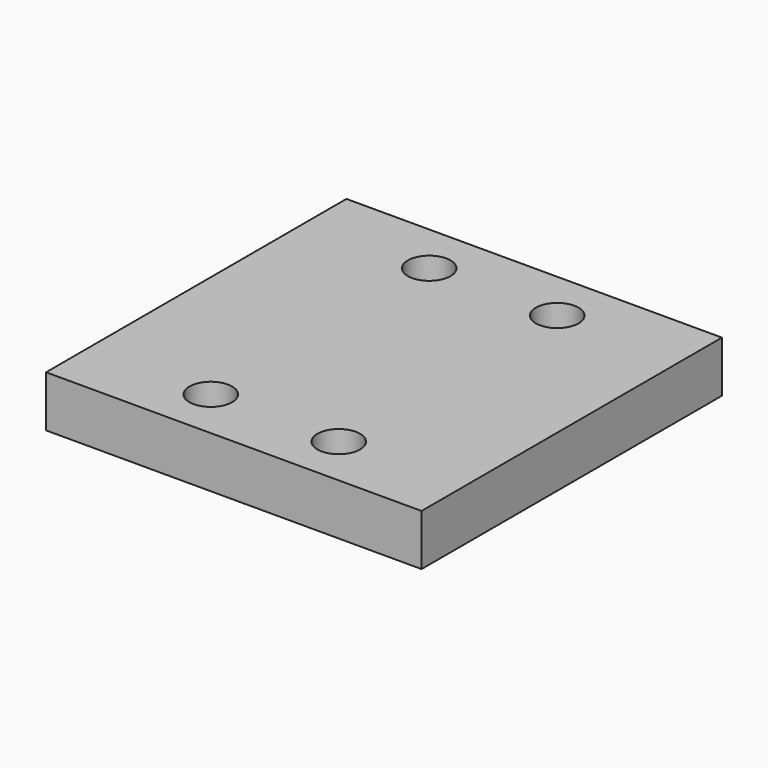
from build123d import *

# Parameters (mm, degrees)
CYLINDER002_R     = 2.5
CYLINDER002_DEPTH = 10
CYLINDER003_R     = 2.5
CYLINDER003_DEPTH = 10
CYLINDER001_R     = 2.5
CYLINDER001_DEPTH = 10
CYLINDER_R        = 2.5
CYLINDER_DEPTH    = 10
BOX_W             = 44
BOX_H             = 44
BOX_DEPTH         = 6


with BuildPart() as cylinder002:
    # Cylinder002 → Cylinder002 (new body)
    with BuildSketch(Plane(origin=(14.5, 38, 0), x_dir=(1, 0, 0), z_dir=(0, 0, 1))):
        Circle(CYLINDER002_R)
    extrude(amount=CYLINDER002_DEPTH)


with BuildPart() as cylinder003:
    # Cylinder003 → Cylinder003 (new body)
    with BuildSketch(Plane(origin=(29.5, 38, 0), x_dir=(1, 0, 0), z_dir=(0, 0, 1))):
        Circle(CYLINDER003_R)
    extrude(amount=CYLINDER003_DEPTH)


with BuildPart() as cylinder001:
    # Cylinder001 → Cylinder001 (new body)
    with BuildSketch(Plane(origin=(29.5, 6, 0), x_dir=(1, 0, 0), z_dir=(0, 0, 1))):
        Circle(CYLINDER001_R)
    extrude(amount=CYLINDER001_DEPTH)


with BuildPart() as cylinder:
    # Cylinder → Cylinder (new body)
    with BuildSketch(Plane(origin=(14.5, 6, 0), x_dir=(1, 0, 0), z_dir=(0, 0, 1))):
        Circle(CYLINDER_R)
    extrude(amount=CYLINDER_DEPTH)


with BuildPart() as cut003:
    # Box → Box (new body)
    with BuildSketch(Plane.XY):
        with Locations((22, 22)):
            Rectangle(BOX_W, BOX_H)
    extrude(amount=BOX_DEPTH)

    # Cut: cut Cylinder
    add(cylinder.part, mode=Mode.SUBTRACT)

    # Cut001: cut Cylinder001
    add(cylinder001.part, mode=Mode.SUBTRACT)

    # Cut002: cut Cylinder003
    add(cylinder003.part, mode=Mode.SUBTRACT)

    # Cut003: cut Cylinder002
    add(cylinder002.part, mode=Mode.SUBTRACT)


solid = cut003.part
